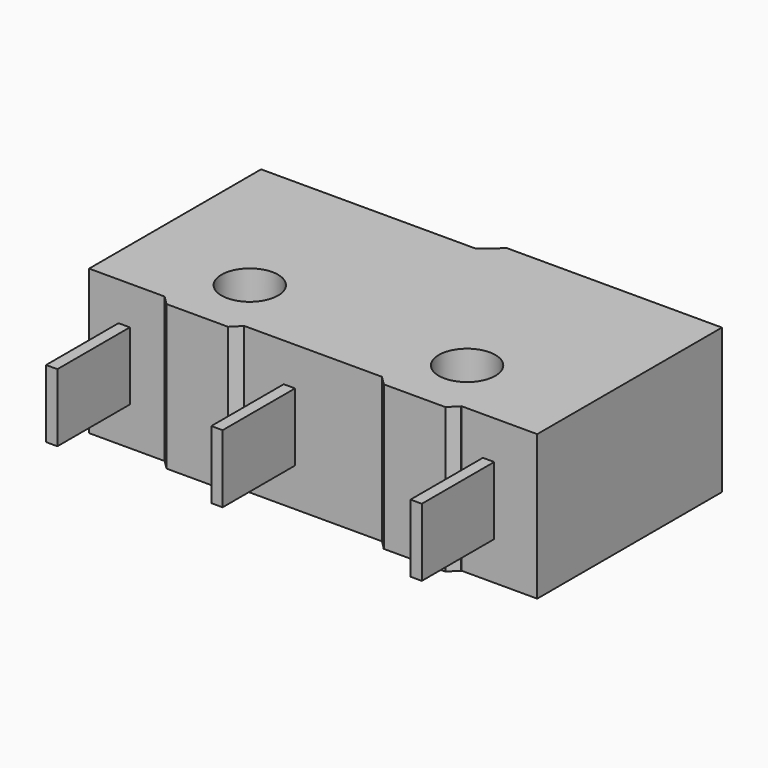
from build123d import *

# Parameters (mm, degrees)
CYLINDER020_R          = 1.25
CYLINDER020_DEPTH      = 10
CYLINDER020_ROLL_ANGLE = 90
PAD016_DEPTH           = 6.4
BOX027_W               = 0.5
BOX027_H               = 3
BOX027_DEPTH           = 4
BOX025_W               = 0.5
BOX025_H               = 3
BOX025_DEPTH           = 4
BOX026_W               = 0.5
BOX026_H               = 3
BOX026_DEPTH           = 4
BOX028_W               = 3.5
BOX028_H               = 6.4
BOX028_DEPTH           = 0.4
CHAMFER014_SIZE        = 0.39
CHAMFER013_SIZE        = 0.39
BOX024_W               = 3.5
BOX024_H               = 6.4
BOX024_DEPTH           = 0.4
CHAMFER015_SIZE        = 0.39
PAD015_DEPTH           = 3.8
FUSION017_ROLL_ANGLE   = -90


with BuildPart() as cylinder020:
    # Cylinder020 → Cylinder020 (new body)
    with BuildSketch(Plane.XY):
        Circle(CYLINDER020_R)
    extrude(amount=CYLINDER020_DEPTH)


with BuildPart() as cylinder020_1:
    # Cylinder020 roll: moved
    add(cylinder020.part.rotate(Axis((0, 0, 0), (1, 0, 0)), CYLINDER020_ROLL_ANGLE))


with BuildPart() as cylinder020_2:
    # Cylinder020 placement: moved
    add(cylinder020_1.part.moved(Location((-4.8, 2, 2.5))))


with BuildPart() as part_mirroring003:
    # Part__Mirroring003: instance of Cylinder020
    add(cylinder020_2.part.mirror(Plane(origin=(0, 0, 0), x_dir=(0, -1, 0), z_dir=(1, 0, 0))))


with BuildPart() as cut027:
    # Sketch028 → Pad016 (new body)
    with BuildSketch(Plane.XZ):
        Polygon((-9.9, 0), (9.9, 0), (9.9, 9.5), (0.4, 9.5), (-0.4, 10.2), (-9.9, 10.2), align=None)
    extrude(amount=PAD016_DEPTH)

    # Cut026: cut Cylinder020
    add(cylinder020_2.part, mode=Mode.SUBTRACT)

    # Cut027: cut Part__Mirroring003
    add(part_mirroring003.part, mode=Mode.SUBTRACT)


with BuildPart() as kostka013:
    # Box027 → Box027 (new body)
    with BuildSketch(Plane(origin=(0.8, -4.7, -4), x_dir=(1, 0, 0), z_dir=(0, 0, 1))):
        with Locations((0.25, 1.5)):
            Rectangle(BOX027_W, BOX027_H)
    extrude(amount=BOX027_DEPTH)


with BuildPart() as kostka011:
    # Box025 → Box025 (new body)
    with BuildSketch(Plane(origin=(8.1, -4.7, -4), x_dir=(1, 0, 0), z_dir=(0, 0, 1))):
        with Locations((0.25, 1.5)):
            Rectangle(BOX025_W, BOX025_H)
    extrude(amount=BOX025_DEPTH)


with BuildPart() as fusion016:
    # Box026 → Box026 (new body)
    with BuildSketch(Plane(origin=(-8, -4.7, -4), x_dir=(1, 0, 0), z_dir=(0, 0, 1))):
        with Locations((0.25, 1.5)):
            Rectangle(BOX026_W, BOX026_H)
    extrude(amount=BOX026_DEPTH)

    # Fusion016: union Kostka013, Kostka011
    add(kostka013.part)
    add(kostka011.part)


with BuildPart() as chamfer013:
    # Box028 → Box028 (new body)
    with BuildSketch(Plane(origin=(-6.55, -6.4, -0.4), x_dir=(1, 0, 0), z_dir=(0, 0, 1))):
        with Locations((1.75, 3.2)):
            Rectangle(BOX028_W, BOX028_H)
    extrude(amount=BOX028_DEPTH)

    # Chamfer014
    chamfer014_edges = [chamfer013.edges().sort_by_distance(p)[0] for p in [
        (-6.55, -3.2, -0.4),
    ]]
    chamfer(chamfer014_edges, length=CHAMFER014_SIZE)

    # Chamfer013
    chamfer013_edges = [chamfer013.edges().sort_by_distance(p)[0] for p in [
        (-3.05, -3.2, -0.4),
    ]]
    chamfer(chamfer013_edges, length=CHAMFER013_SIZE)


with BuildPart() as fusion018:
    # Box024 → Box024 (new body)
    with BuildSketch(Plane(origin=(3.05, -6.4, -0.4), x_dir=(1, 0, 0), z_dir=(0, 0, 1))):
        with Locations((1.75, 3.2)):
            Rectangle(BOX024_W, BOX024_H)
    extrude(amount=BOX024_DEPTH)

    # Chamfer015
    chamfer015_edges = [fusion018.edges().sort_by_distance(p)[0] for p in [
        (3.05, -3.2, -0.4),
        (6.55, -3.2, -0.4),
    ]]
    chamfer(chamfer015_edges, length=CHAMFER015_SIZE)

    # Fusion018: union Chamfer013
    add(chamfer013.part)


with BuildPart() as fusion017:
    # Sketch025 → Pad015 (new body)
    with BuildSketch(Plane.XZ):
        Polygon((-7.199301, 11.401983), (9.800699, 11.401983), (9.800699, 11.201983), (-6.999301, 11.201983), (-6.999301, 10.201983), (-7.199301, 10.201983), align=None)
    extrude(amount=PAD015_DEPTH)


with BuildPart() as fusion017_1:
    # Body003 placement: moved
    add(fusion017.part.moved(Location((0, -1.3, 0))))

    # Fusion017: union Cut027, Fusion016, Fusion018
    add(cut027.part)
    add(fusion016.part)
    add(fusion018.part)


with BuildPart() as fusion017_2:
    # Fusion017 roll: moved
    add(fusion017_1.part.rotate(Axis((0, 0, 0), (1, 0, 0)), FUSION017_ROLL_ANGLE))


with BuildPart() as fusion017_3:
    # Fusion017 placement: moved
    add(fusion017_2.part.moved(Location((0, 36, 66))))


with BuildPart() as part_mirroring002:
    # Part__Mirroring002: instance of Fusion017
    add(fusion017_3.part.mirror(Plane(origin=(0, 0, 0), x_dir=(0, -1, 0), z_dir=(1, 0, 0))))


with BuildPart() as part_mirroring002_1:
    # Part__Mirroring002 placement: moved
    add(part_mirroring002.part.moved(Location((-7, -15.5, -54.2))))


solid = part_mirroring002_1.part
